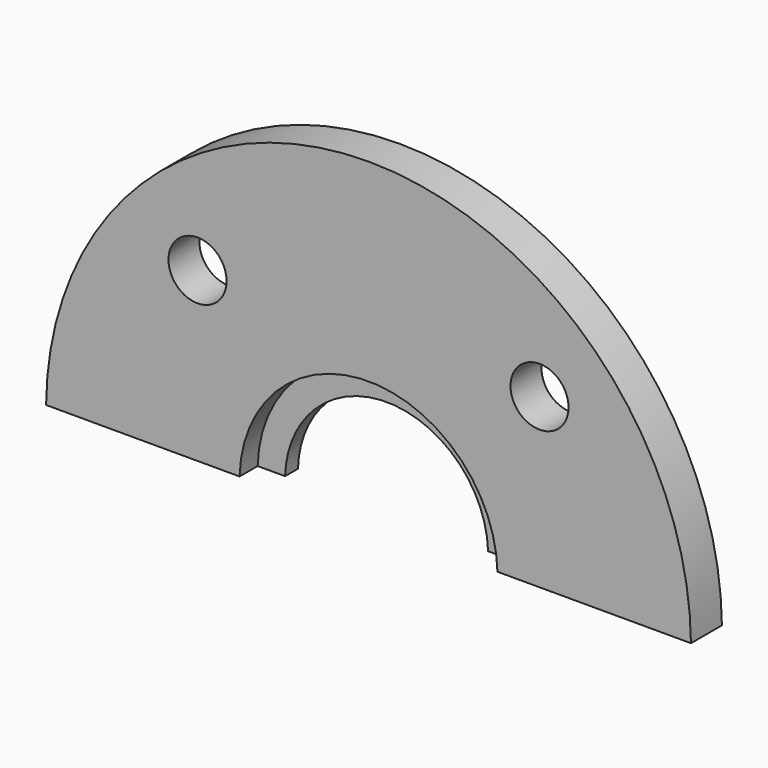
from build123d import *

# Parameters (mm, degrees)
F0_R     = 9
F1_DEPTH = 12
F3_DEPTH = 7


with BuildPart() as f1:
    # F0 (on Front) → F1 (new body)
    with BuildSketch(Plane.XZ):
        with BuildLine():
            ThreePointArc((99.994999875, -1.7135474618), (0, 97.2864525382), (-99.994999875, -1.7135474618))
            Line((-99.994999875, -1.7135474618), (-31.4841229829, -1.7135474618))
            ThreePointArc((-31.4841229829, -1.7135474618), (-28.9071720989, 9.8014595795), (-22.2738636074, 19.5603161456))
            ThreePointArc((-22.2738636074, 19.5603161456), (11.5910110705, 26.5763562998), (31.4841229829, -1.7135474618))
            Line((31.4841229829, -1.7135474618), (99.994999875, -1.7135474618))
        make_face()
        with BuildLine():
            ThreePointArc((-44.033008589, 50.3194611272), (-44.7180927964, 46.8753102359), (-46.6690475583, 43.9555000965))
            ThreePointArc((-46.6690475583, 43.9555000965), (-61.3479243816, 53.7636120185), (-44.033008589, 50.3194611272))
        make_face(mode=Mode.SUBTRACT)
        with Locations((53.033008589, 50.3194611272)):
            Circle(F0_R, mode=Mode.SUBTRACT)
    extrude(amount=F1_DEPTH)

    # F2 (on face) → F3 (cut)
    with BuildSketch(Plane.XZ.offset(12)):
        with BuildLine():
            Line((31.4841229829, -1.7135474618), (39.9874980463, -1.7135474618))
            ThreePointArc((39.9874980463, -1.7135474618), (0, 37.2864525382), (-39.9874980463, -1.7135474618))
            Line((-39.9874980463, -1.7135474618), (-31.4841229829, -1.7135474618))
            ThreePointArc((-31.4841229829, -1.7135474618), (0, 28.7864525382), (31.4841229829, -1.7135474618))
        make_face()
    extrude(amount=-F3_DEPTH, mode=Mode.SUBTRACT)


solid = f1.part
